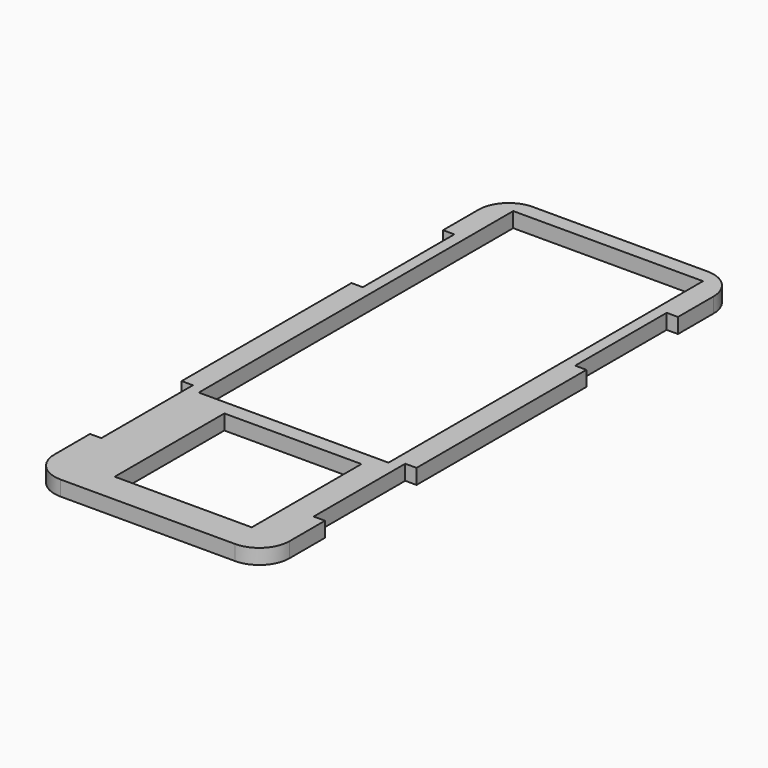
from build123d import *

# Parameters (mm, degrees)
SKETCH_W        = 31.2
SKETCH_H        = 78.4
SKETCH_W_2      = 25.2
SKETCH_H_2      = 52.2
SKETCH_W_3      = 18.2
SKETCH_H_3      = 18.2
PAD_DEPTH       = 2
SKETCH007_W     = 11.282879
SKETCH007_H     = 15.2
SKETCH007_W_2   = 12.568334
SKETCH007_W_3   = 28.383078
SKETCH007_W_4   = 31.922889
POCKET002_DEPTH = 5
FILLET002_R     = 4


with BuildPart() as part:
    # Sketch → Pad (new body)
    with BuildSketch(Plane.XY):
        with Locations((15.6, -39.2)):
            Rectangle(SKETCH_W, SKETCH_H)
        with Locations((15.6, -28.1)):
            Rectangle(SKETCH_W_2, SKETCH_H_2, mode=Mode.SUBTRACT)
        with Locations((17.1, -65.3)):
            Rectangle(SKETCH_W_3, SKETCH_H_3, mode=Mode.SUBTRACT)
    extrude(amount=PAD_DEPTH)

    # Sketch007 (on Face13 of Pad) → Pocket002 (cut)
    with BuildSketch(Plane(origin=(0, 0, 0), x_dir=(1, 0, 0), z_dir=(0, 0, -1))):
        with Locations((-4.141439, 60.9)):
            Rectangle(SKETCH007_W, SKETCH007_H)
        with Locations((-4.784167, 17.5)):
            Rectangle(SKETCH007_W_2, SKETCH007_H)
        with Locations((43.891539, 60.9)):
            Rectangle(SKETCH007_W_3, SKETCH007_H)
        with Locations((45.661445, 17.5)):
            Rectangle(SKETCH007_W_4, SKETCH007_H)
    extrude(amount=-POCKET002_DEPTH, mode=Mode.SUBTRACT)

    # Fillet002
    fillet002_edges = [part.edges().sort_by_distance(p)[0] for p in [
        (31.2, 0, 1),
        (0, 0, 1),
        (0, -78.4, 1),
        (31.2, -78.4, 1),
    ]]
    fillet(fillet002_edges, radius=FILLET002_R)


solid = part.part
